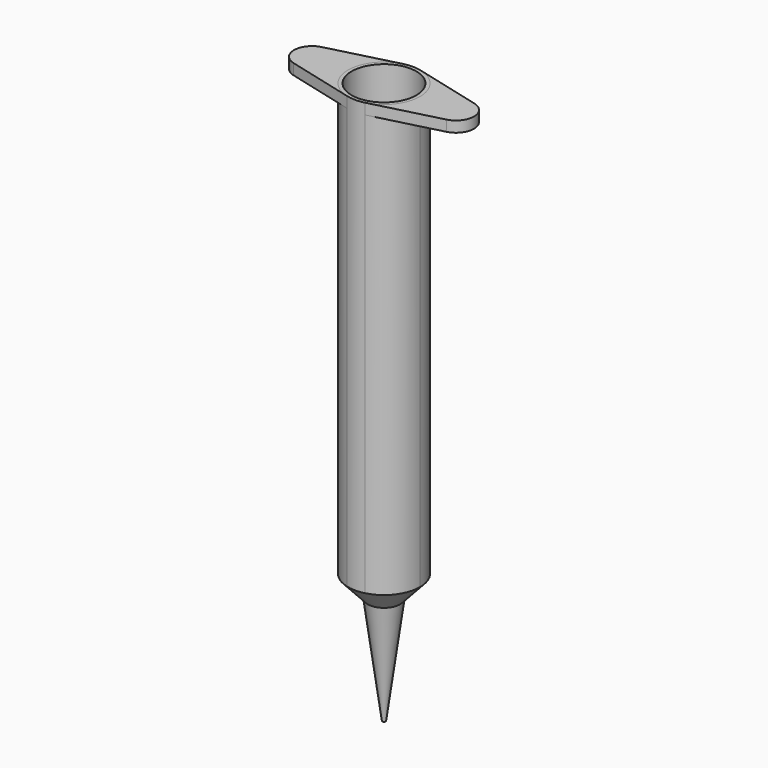
from build123d import *

# Parameters (mm, degrees)
F1_DEPTH = 1.5
F3_DEPTH = 60


with BuildPart() as f1:
    # F0 (on Top) → F1 (new body)
    with BuildSketch(Plane.XY):
        with BuildLine():
            ThreePointArc((-5, 0), (-3.9528470752, 3.0618621785), (-1.25, 4.8412291828))
            Line((-1.25, 4.8412291828), (-10.625, 2.4206145914))
            ThreePointArc((-10.625, 2.4206145914), (-12.5, 0), (-10.625, -2.4206145914))
            Line((-10.625, -2.4206145914), (-1.25, -4.8412291828))
            ThreePointArc((-1.25, -4.8412291828), (-3.9528470752, -3.0618621785), (-5, 0))
        make_face()
    extrude(amount=-F1_DEPTH)


with BuildPart() as f1b:
    # F0 (on Top) → F1, piece 2 (new body)
    with BuildSketch(Plane.XY):
        with BuildLine():
            ThreePointArc((1.25, 4.8412291828), (3.9528470752, 3.0618621785), (5, 0))
            ThreePointArc((5, 0), (3.9528470752, -3.0618621785), (1.25, -4.8412291828))
            Line((1.25, -4.8412291828), (10.625, -2.4206145914))
            ThreePointArc((10.625, -2.4206145914), (12.5, 0), (10.625, 2.4206145914))
            Line((10.625, 2.4206145914), (1.25, 4.8412291828))
        make_face()
    extrude(amount=-F1_DEPTH)


with BuildPart() as f3:
    # F0 (on Top) → F3 (new body)
    with BuildSketch(Plane.XY):
        with BuildLine():
            ThreePointArc((1.25, -4.8412291828), (3.9528470752, -3.0618621785), (5, 0))
            Line((5, 0), (4.5, 0))
            ThreePointArc((4.5, 0), (0, -4.5), (-4.5, 0))
            Line((-4.5, 0), (-5, 0))
            ThreePointArc((-5, 0), (-3.9528470752, -3.0618621785), (-1.25, -4.8412291828))
            ThreePointArc((-1.25, -4.8412291828), (0, -5), (1.25, -4.8412291828))
        make_face()
        with BuildLine():
            Line((4.5, 0), (5, 0))
            ThreePointArc((5, 0), (3.9528470752, 3.0618621785), (1.25, 4.8412291828))
            ThreePointArc((1.25, 4.8412291828), (0, 5), (-1.25, 4.8412291828))
            ThreePointArc((-1.25, 4.8412291828), (-3.9528470752, 3.0618621785), (-5, 0))
            Line((-5, 0), (-4.5, 0))
            ThreePointArc((-4.5, 0), (0, 4.5), (4.5, 0))
        make_face()
    extrude(amount=-F3_DEPTH)

    # F10 (on Front) → F11 (revolve)
    with BuildSketch(Plane.XZ):
        Polygon((-4.5, -60), (-5, -60), (-2.25, -63), (-2, -63), align=None)
    revolve(axis=Axis((0, 0, -69), (0, 0, -1)))

    # F10 (on Front) → F12 (revolve)
    with BuildSketch(Plane.XZ):
        Polygon((-2, -63), (-2.25, -63), (-0.23, -78), (-0.205, -78), align=None)
    revolve(axis=Axis((0, 0, -69), (0, 0, -1)))


solid = Compound([f1.part, f1b.part, f3.part])
